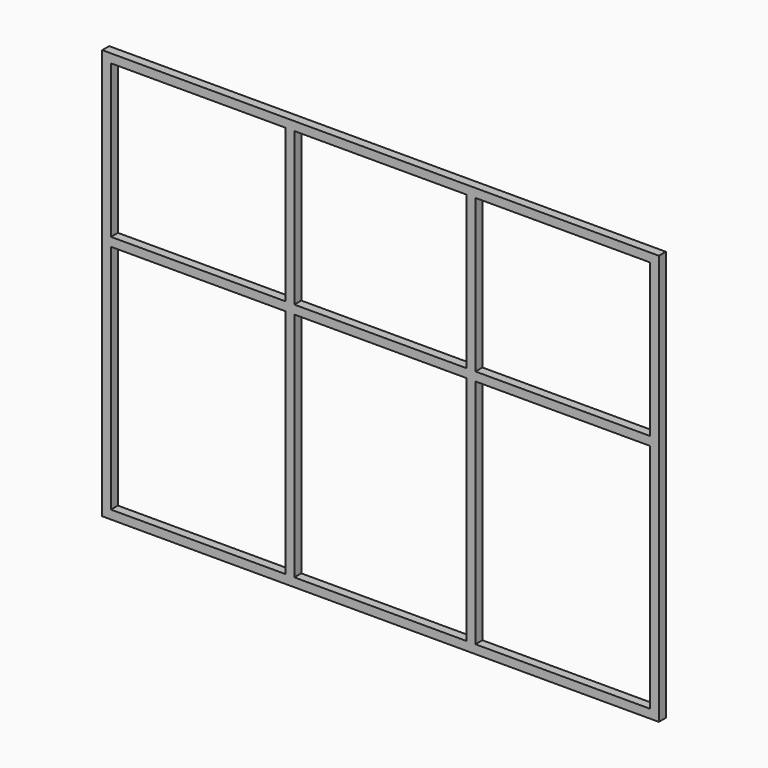
from build123d import *

# Parameters (mm, degrees)
F0_W     = 2550
F0_H     = 1880
F0_W_2   = 800
F0_H_2   = 1060
F0_W_3   = 790
F0_H_3   = 700
F1_DEPTH = 20


with BuildPart() as f1:
    # F0 (on Front) → F1 (new body, symmetric)
    with BuildSketch(Plane.XZ):
        Rectangle(F0_W, F0_H)
        with Locations((-835, -370)):
            Rectangle(F0_W_2, F0_H_2, mode=Mode.SUBTRACT)
        with Locations((0, -370)):
            Rectangle(F0_W_3, F0_H_2, mode=Mode.SUBTRACT)
        with Locations((835, -370)):
            Rectangle(F0_W_2, F0_H_2, mode=Mode.SUBTRACT)
        with Locations((-835, 550)):
            Rectangle(F0_W_2, F0_H_3, mode=Mode.SUBTRACT)
        with Locations((0, 550)):
            Rectangle(F0_W_3, F0_H_3, mode=Mode.SUBTRACT)
        with Locations((835, 550)):
            Rectangle(F0_W_2, F0_H_3, mode=Mode.SUBTRACT)
    extrude(amount=F1_DEPTH, both=True)


solid = f1.part
